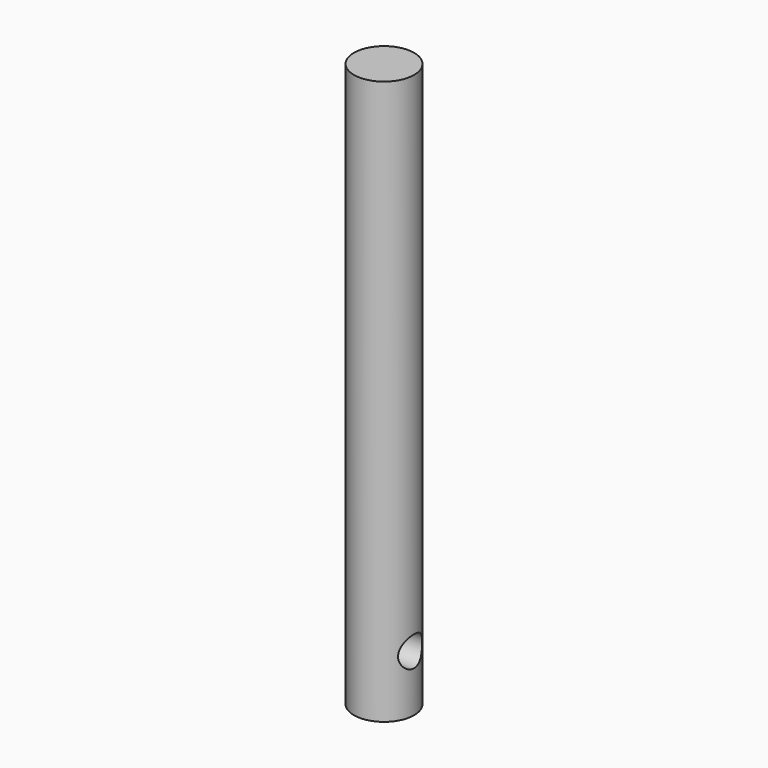
from build123d import *

# Parameters (mm, degrees)
F0_R          = 8
F1_DEPTH      = 150
F2_R          = 4
F3_DEPTH      = 25
F3_DEPTH_BACK = 25


with BuildPart() as f1:
    # F0 (on Top) → F1 (new body)
    with BuildSketch(Plane.XY):
        Circle(F0_R)
    extrude(amount=F1_DEPTH)

    # F2 (on Right) → F3 (cut, two sides)
    with BuildSketch(Plane.YZ) as f3_sk:
        with Locations((0, 15)):
            Circle(F2_R)
    extrude(amount=-F3_DEPTH, mode=Mode.SUBTRACT)
    extrude(f3_sk.sketch, amount=F3_DEPTH_BACK, mode=Mode.SUBTRACT)


solid = f1.part
